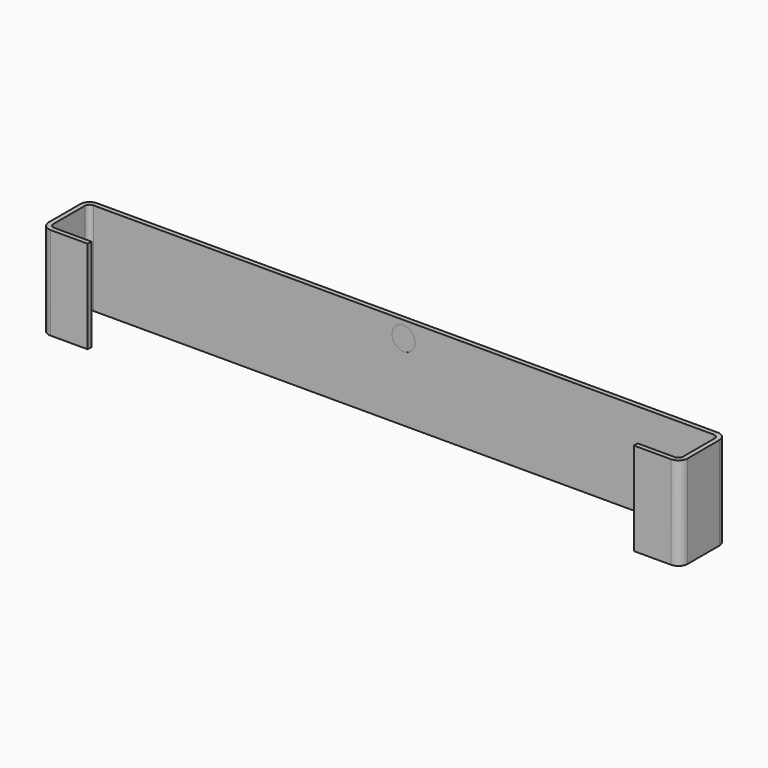
from build123d import *

# Parameters (mm, degrees)
F1_DEPTH = 20
F2_R     = 2
F3_R     = 4
F4_R     = 5
F5_DEPTH = 0.01


with BuildPart() as f1:
    # F0 (on Top) → F1 (new body, symmetric)
    with BuildSketch(Plane.XY):
        Polygon((137.5, 0), (0, 0), (-137.5, 0), (-137.5, -25), (-117.5, -25), (-117.5, -23), (-135.5, -23), (-135.5, -2), (0, -2), (135.5, -2), (135.5, -23), (117.5, -23), (117.5, -25), (137.5, -25), align=None)
    extrude(amount=F1_DEPTH, both=True)

    # F2
    f2_edges = [f1.edges().sort_by_distance(p)[0] for p in [
        (-135.5, -23, 0),
        (-135.5, -2, 0),
        (135.5, -23, 0),
        (135.5, -2, 0),
    ]]
    fillet(f2_edges, radius=F2_R)

    # F3
    f3_edges = [f1.edges().sort_by_distance(p)[0] for p in [
        (-137.5, -25, 0),
        (-137.5, 0, 0),
        (137.5, -25, 0),
        (137.5, 0, 0),
    ]]
    fillet(f3_edges, radius=F3_R)

    # F4 (on face) → F5 (cut)
    with BuildSketch(Plane.XZ.offset(2)):
        with Locations((0, 13)):
            Circle(F4_R)
    extrude(amount=-F5_DEPTH, mode=Mode.SUBTRACT)


solid = f1.part
